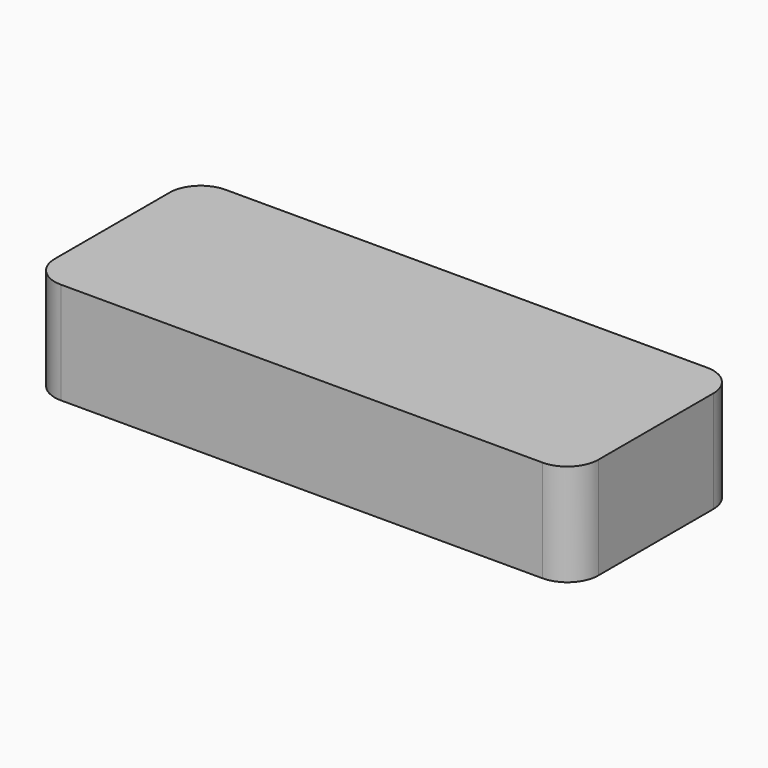
from build123d import *

# Parameters (mm, degrees)
F0_R     = 2
F1_DEPTH = 32.8
F2_R     = 3
F3_DEPTH = 13.6
F4_DEPTH = 4


with BuildPart() as f1:
    # F0 (on Top) → F1 (new body)
    with BuildSketch(Plane.XY):
        with BuildLine():
            Line((77.5, 33.1), (-77.5, 33.1))
            ThreePointArc((-77.5, 33.1), (-84.571068, 30.171068), (-87.5, 23.1))
            Line((-87.5, 23.1), (-87.5, -23.1))
            ThreePointArc((-87.5, -23.1), (-84.571068, -30.171068), (-77.5, -33.1))
            Line((-77.5, -33.1), (77.5, -33.1))
            ThreePointArc((77.5, -33.1), (84.571068, -30.171068), (87.5, -23.1))
            Line((87.5, -23.1), (87.5, 23.1))
            ThreePointArc((87.5, 23.1), (84.571068, 30.171068), (77.5, 33.1))
        make_face()
        with Locations((-28.1, -20)):
            Circle(F0_R, mode=Mode.SUBTRACT)
        with Locations((71.9, -20)):
            Circle(F0_R, mode=Mode.SUBTRACT)
        with Locations((-28.1, 20)):
            Circle(F0_R, mode=Mode.SUBTRACT)
        with Locations((71.9, 20)):
            Circle(F0_R, mode=Mode.SUBTRACT)
        with Locations((-28.1, 20)):
            Circle(F0_R)
        with Locations((-28.1, -20)):
            Circle(F0_R)
        with Locations((71.9, 20)):
            Circle(F0_R)
        with Locations((71.9, -20)):
            Circle(F0_R)
    extrude(amount=F1_DEPTH)

    # F2 (on face) → F3 (join)
    with BuildSketch(Plane(origin=(-87.5, 0, 0), x_dir=(0, -1, 0), z_dir=(-1, 0, 0))):
        with Locations((0, 12)):
            Circle(F2_R)
    extrude(amount=F3_DEPTH)

    # F0 (on Top) → F4 (cut)
    with BuildSketch(Plane.XY):
        with Locations((-28.1, -20)):
            Circle(F0_R)
        with Locations((-28.1, 20)):
            Circle(F0_R)
        with Locations((71.9, 20)):
            Circle(F0_R)
        with Locations((71.9, -20)):
            Circle(F0_R)
    extrude(amount=F4_DEPTH, mode=Mode.SUBTRACT)


solid = f1.part
